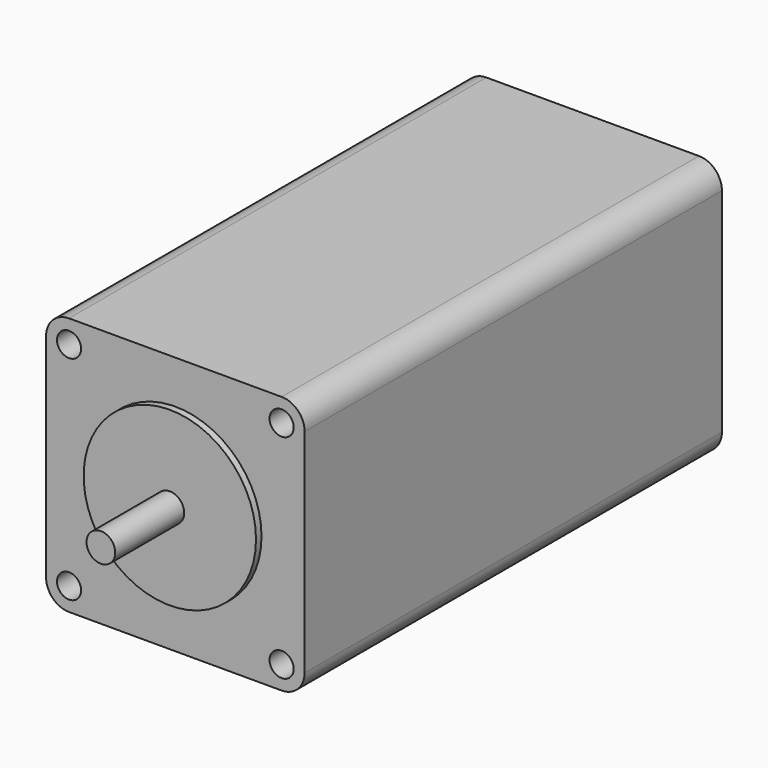
from build123d import *

# Parameters (mm, degrees)
F0_W     = 57.15
F0_H     = 57.15
F1_DEPTH = 115.316
F2_R     = 5.08
F3_R     = 19.05
F4_DEPTH = 1.524
F5_R     = 3.175
F6_DEPTH = 19.05
F7_R     = 2.667
F8_DEPTH = 25.4


with BuildPart() as f1:
    # F0 (on Front) → F1 (new body)
    with BuildSketch(Plane.XZ):
        with Locations((28.575, 28.575)):
            Rectangle(F0_W, F0_H)
    extrude(amount=F1_DEPTH)

    # F2
    f2_edges = [f1.edges().sort_by_distance(p)[0] for p in [
        (57.15, -57.658, 57.15),
        (57.15, -57.658, 0),
        (0, -57.658, 0),
        (0, -57.658, 57.15),
    ]]
    fillet(f2_edges, radius=F2_R)

    # F3 (on face) → F4 (join)
    with BuildSketch(Plane.XZ.offset(115.316)):
        with Locations((28.575, 28.575)):
            Circle(F3_R)
    extrude(amount=F4_DEPTH)

    # F5 (on face) → F6 (join)
    with BuildSketch(Plane.XZ.offset(116.84)):
        with Locations((28.575, 28.575)):
            Circle(F5_R)
    extrude(amount=F6_DEPTH)

    # F7 (on face) → F8 (cut)
    with BuildSketch(Plane.XZ.offset(115.316)):
        with Locations((52.07, 52.07)):
            Circle(F7_R)
        with Locations((5.08, 52.07)):
            Circle(F7_R)
        with Locations((52.07, 5.08)):
            Circle(F7_R)
        with Locations((5.08, 5.08)):
            Circle(F7_R)
    extrude(amount=-F8_DEPTH, mode=Mode.SUBTRACT)


solid = f1.part
